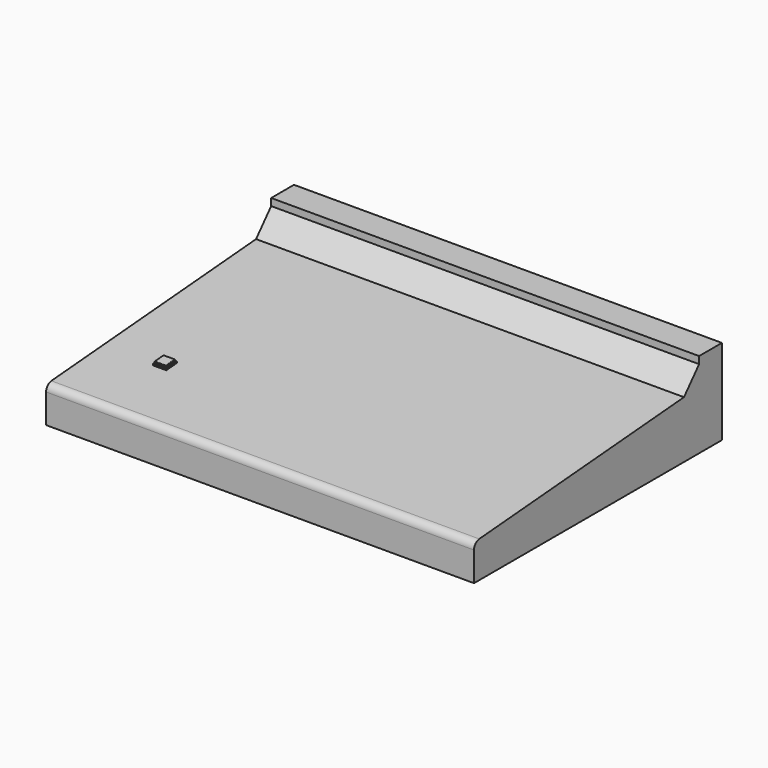
from build123d import *

# Parameters (mm, degrees)
F1_DEPTH = 190.5
F2_W     = 12
F2_H     = 12
F3_DEPTH = 2
F4_SIZE  = 0.8
F5_DEPTH = 1
F6_R     = 0.4


with BuildPart() as f1:
    # F0 (on Right) → F1 (new body, symmetric)
    with BuildSketch(Plane.YZ):
        with BuildLine():
            Line((-164.7787988186, -76.2), (111.1195152746, -76.2))
            Line((111.1195152746, -76.2), (111.1195152746, 0))
            Line((111.1195152746, 0), (85.7195152746, 0))
            Line((85.7195152746, 0), (85.7195152746, -6.3575065629))
            Line((85.7195152746, -6.3575065629), (68.9104866383, -25.4))
            Line((68.9104866383, -25.4), (-158.9419270625, -43.8726167807))
            ThreePointArc((-158.9419270625, -43.8726167807), (-163.0968211166, -45.8969616661), (-164.7787988186, -50.2018504946))
            Line((-164.7787988186, -50.2018504946), (-164.7787988186, -76.2))
        make_face()
    extrude(amount=F1_DEPTH, both=True)

    # F2 (on face) → F3 (join)
    with BuildSketch(Plane(origin=(0, 2.4957770492, -30.7844216917), x_dir=(1, 0, 0), z_dir=(0, -0.0808075975, 0.9967297187))):
        with Locations((-138.6103741825, -100.1955993752)):
            Rectangle(F2_W, F2_H)
    extrude(amount=F3_DEPTH)

    # F4
    f4_edges = [f1.edges().sort_by_distance(p)[0] for p in [
        (-138.610374, -91.553391, -36.402682),
        (-144.610374, -97.53377, -36.887528),
        (-138.610374, -103.514148, -37.372374),
        (-132.610374, -97.53377, -36.887528),
    ]]
    chamfer(f4_edges, length=F4_SIZE)

    # F5 (add): a face of the model
    f5_faces = [f1.faces().sort_by_distance(p)[0] for p in [
        (-138.6103741825, -97.5337697285, -36.8875279164),
    ]]
    extrude(f5_faces, amount=F5_DEPTH)

    # F6
    f6_edges = [f1.edges().sort_by_distance(p)[0] for p in [
        (-138.610374, -92.431583, -35.470599),
        (-133.410374, -97.614577, -35.890798),
        (-143.810374, -97.614577, -35.890798),
        (-138.610374, -102.797572, -36.310998),
    ]]
    fillet(f6_edges, radius=F6_R)


solid = f1.part
